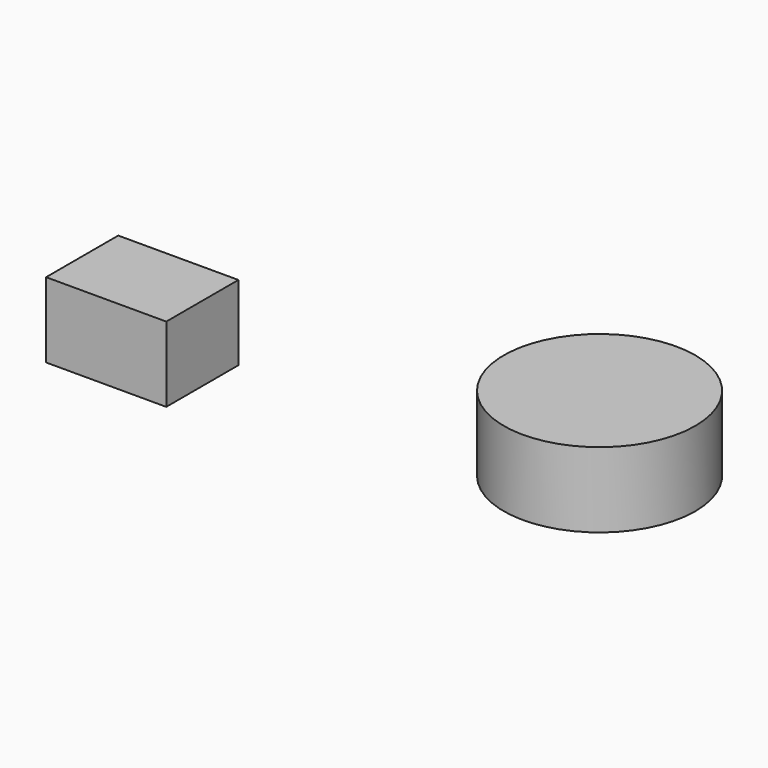
from build123d import *

# Parameters (mm, degrees)
F0_R     = 32.378828
F0_W     = 40.652342
F0_H     = 30.499519
F1_DEPTH = 25.4
F2_DEPTH = 25.4


with BuildPart() as f1:
    # F0 (on Top) → F1 (new body)
    with BuildSketch(Plane.XY):
        Circle(F0_R)
        with Locations((-134.350296, -25.416235)):
            Rectangle(F0_W, F0_H)
    extrude(amount=F1_DEPTH)


with BuildPart() as f2:
    # F0 (on Top) → F2 (new body)
    with BuildSketch(Plane.XY):
        Circle(F0_R)
        with Locations((-134.350296, -25.416235)):
            Rectangle(F0_W, F0_H)
    extrude(amount=F2_DEPTH)


solid = Compound([f1.part, f2.part])
